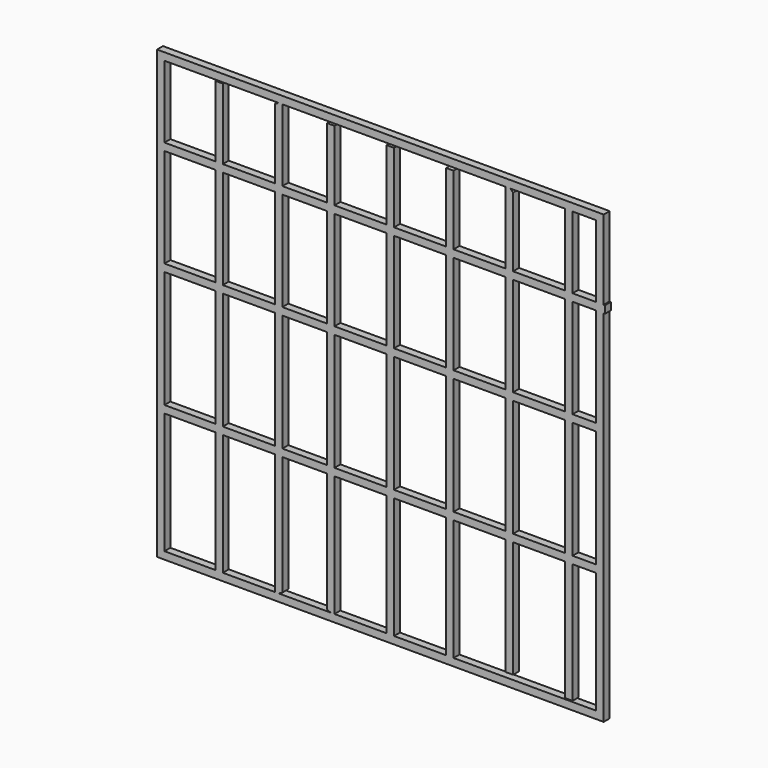
from build123d import *

# Parameters (mm, degrees)
F0_W     = 1524
F0_H     = 1524
F0_W_2   = 1473.2
F0_H_2   = 1473.2
F1_DEPTH = 25.4
F2_W     = 25.4
F2_H     = 1473.2
F2_H_2   = 1468.964992
F2_H_3   = 1466.467655
F2_H_4   = 1472.886331
F3_DEPTH = 25.4
F4_W     = 1471.939683
F4_H     = 25.4
F4_W_2   = 1503.417969
F5_DEPTH = 25.4


with BuildPart() as f1:
    # F0 (on Front) → F1 (new body)
    with BuildSketch(Plane.XZ):
        with Locations((-33.591984, 108.689165)):
            Rectangle(F0_W, F0_H)
        with Locations((-33.591984, 108.689165)):
            Rectangle(F0_W_2, F0_H_2, mode=Mode.SUBTRACT)
    extrude(amount=F1_DEPTH)

    # F2 (on Front) → F3 (join)
    with BuildSketch(Plane.XZ):
        with Locations((-583.836417, 104.738611)):
            Rectangle(F2_W, F2_H)
        Polygon((-367.961303, 851.760401), (-393.361303, 838.36392), (-393.361303, -634.83608), (-367.961303, -621.439599), align=None)
        Polygon((-190.161303, -634.83608), (-190.161303, 838.36392), (-215.561303, 838.36392), (-215.561303, -621.439599), align=None)
        with Locations((0.338697, 103.881424)):
            Rectangle(F2_W, F2_H_2)
        with Locations((203.52335, 102.632756)):
            Rectangle(F2_W, F2_H_3)
        Polygon((419.42335, -612.278187), (419.42335, 835.866583), (394.02335, 860.921813), (394.02335, -612.278187), align=None)
        with Locations((609.536889, 111.949723)):
            Rectangle(F2_W, F2_H_4)
    extrude(amount=F3_DEPTH)

    # F4 (on Front) → F5 (join)
    with BuildSketch(Plane.XZ):
        with Locations((-34.39182, 223.449667)):
            Rectangle(F4_W, F4_H)
        with Locations((-34.39182, -201.515604)):
            Rectangle(F4_W, F4_H)
        with Locations((-18.652677, 586.853881)):
            Rectangle(F4_W_2, F4_H)
    extrude(amount=F5_DEPTH)


solid = f1.part
